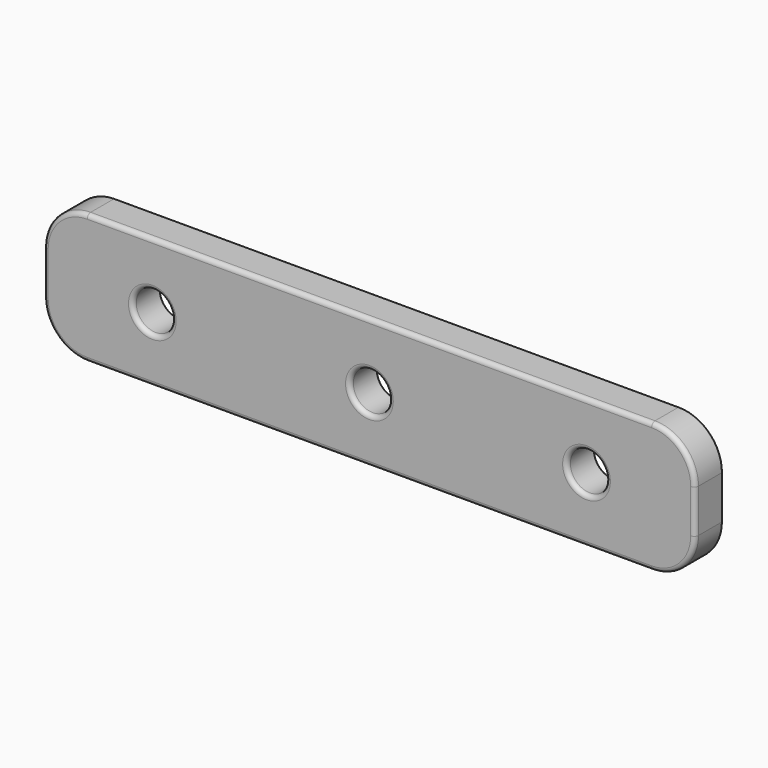
from build123d import *

# Parameters (mm, degrees)
F0_R     = 2.25
F1_DEPTH = 4
F2_R     = 0.5
F3_R     = 0.2


with BuildPart() as f1:
    # F0 (on Front) → F1 (new body)
    with BuildSketch(Plane.XZ):
        with BuildLine():
            ThreePointArc((37.5, 2.5), (36.035534, 6.035534), (32.5, 7.5))
            Line((32.5, 7.5), (-32.5, 7.5))
            ThreePointArc((-32.5, 7.5), (-36.035534, 6.035534), (-37.5, 2.5))
            Line((-37.5, 2.5), (-37.5, -2.5))
            ThreePointArc((-37.5, -2.5), (-36.035534, -6.035534), (-32.5, -7.5))
            Line((-32.5, -7.5), (32.5, -7.5))
            ThreePointArc((32.5, -7.5), (36.035534, -6.035534), (37.5, -2.5))
            Line((37.5, -2.5), (37.5, 2.5))
        make_face()
        with Locations((-25, 0)):
            Circle(F0_R, mode=Mode.SUBTRACT)
        Circle(F0_R, mode=Mode.SUBTRACT)
        with Locations((25, 0)):
            Circle(F0_R, mode=Mode.SUBTRACT)
    extrude(amount=F1_DEPTH)

    # F2
    f2_edges = [f1.edges().sort_by_distance(p)[0] for p in [
        (36.035534, -4, -6.035534),
        (37.5, -4, 0),
        (36.035534, -4, 6.035534),
        (0, -4, 7.5),
        (-36.035534, -4, 6.035534),
        (-37.5, -4, 0),
        (-36.035534, -4, -6.035534),
        (0, -4, -7.5),
        (-27.25, -4, 0),
        (-2.25, -4, 0),
        (22.75, -4, 0),
    ]]
    fillet(f2_edges, radius=F2_R)

    # F3
    f3_edges = [f1.edges().sort_by_distance(p)[0] for p in [
        (36.035534, 0, -6.035534),
        (37.5, 0, 0),
        (36.035534, 0, 6.035534),
        (0, 0, 7.5),
        (-36.035534, 0, 6.035534),
        (-37.5, 0, 0),
        (-36.035534, 0, -6.035534),
        (0, 0, -7.5),
        (-27.25, 0, 0),
        (-2.25, 0, 0),
        (22.75, 0, 0),
    ]]
    fillet(f3_edges, radius=F3_R)


solid = f1.part
